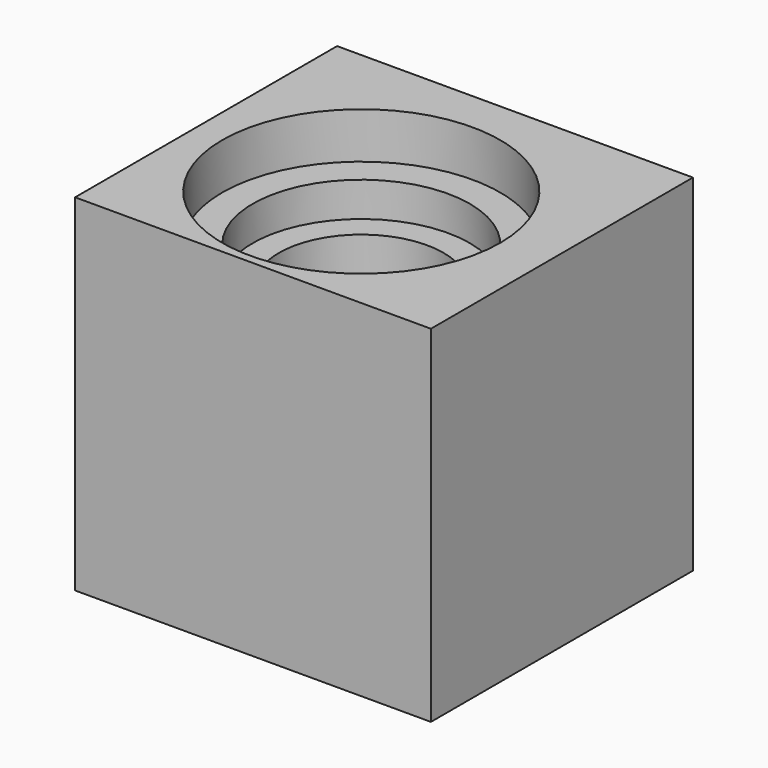
from build123d import *

# Parameters (mm, degrees)
F0_W      = 78.334294
F0_H      = 72.097283
F1_DEPTH  = 76.2
F2_R      = 18.111105
F3_DEPTH  = 33.02
F4_R      = 6.35
F5_DEPTH  = 50.8
F6_R      = 12.471765
F7_DEPTH  = 33.02
F8_R      = 23.903657
F9_DEPTH  = 17.78
F10_R     = 30.618362
F11_DEPTH = 10.16


with BuildPart() as f1:
    # F0 (on Top) → F1 (new body)
    with BuildSketch(Plane.XY):
        with Locations((2.11006, 3.617437)):
            Rectangle(F0_W, F0_H)
    extrude(amount=F1_DEPTH)

    # F2 (on face) → F3 (cut)
    with BuildSketch(Plane.XY.offset(76.2)):
        Circle(F2_R)
    extrude(amount=-F3_DEPTH, mode=Mode.SUBTRACT)

    # F4 (on face) → F5 (cut)
    with BuildSketch(Plane.XY.offset(43.18)):
        Circle(F4_R)
    extrude(amount=-F5_DEPTH, mode=Mode.SUBTRACT)

    # F6 (on face) → F7 (cut)
    with BuildSketch(Plane.XY.offset(43.18)):
        Circle(F6_R)
    extrude(amount=-F7_DEPTH, mode=Mode.SUBTRACT)

    # F8 (on face) → F9 (cut)
    with BuildSketch(Plane.XY.offset(76.2)):
        Circle(F8_R)
    extrude(amount=-F9_DEPTH, mode=Mode.SUBTRACT)

    # F10 (on face) → F11 (cut)
    with BuildSketch(Plane.XY.offset(76.2)):
        Circle(F10_R)
    extrude(amount=-F11_DEPTH, mode=Mode.SUBTRACT)


solid = f1.part
